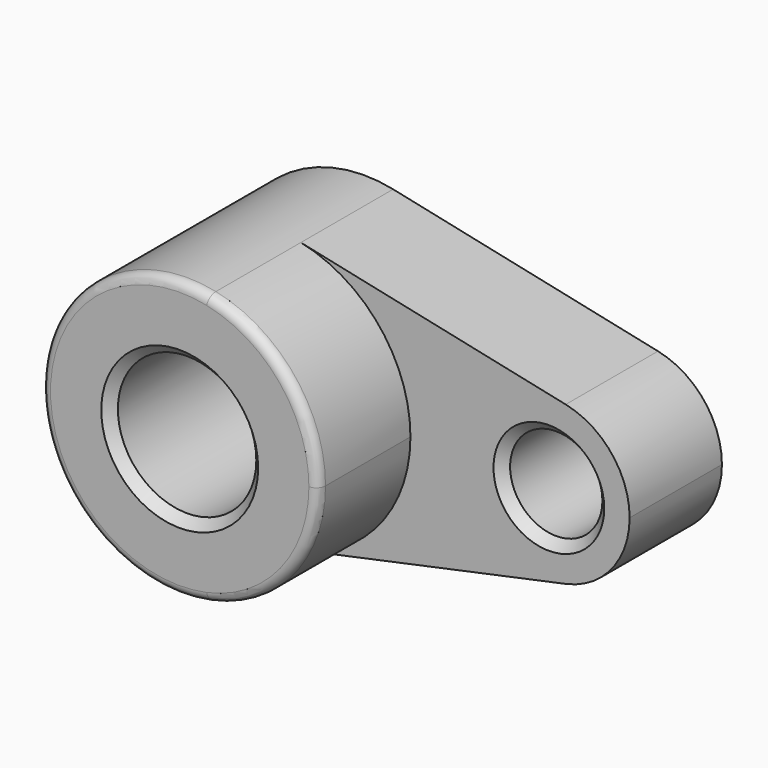
from build123d import *

# Parameters (mm, degrees)
F0_R     = 381
F0_R_2   = 254
F1_DEPTH = 635
F2_DEPTH = 1270
F3_R     = 50.8
F4_SIZE  = 50.8


with BuildPart() as f1:
    # F0 (on Front) → F1 (new body)
    with BuildSketch(Plane.XZ):
        with BuildLine():
            ThreePointArc((158.75, -745.280107), (592.28857, -479.414487), (762, 0))
            ThreePointArc((762, 0), (592.28857, 479.414487), (158.75, 745.280107))
            ThreePointArc((158.75, 745.280107), (-762, 0), (158.75, -745.280107))
        make_face()
        Circle(F0_R, mode=Mode.SUBTRACT)
        with BuildLine():
            ThreePointArc((158.75, 745.280107), (592.28857, 479.414487), (762, 0))
            ThreePointArc((762, 0), (592.28857, -479.414487), (158.75, -745.280107))
            Line((158.75, -745.280107), (1616.604167, -434.746729))
            ThreePointArc((1616.604167, -434.746729), (1079.5, 0), (1616.604167, 434.746729))
            Line((1616.604167, 434.746729), (158.75, 745.280107))
        make_face()
        with BuildLine():
            ThreePointArc((1968.5, 0), (1869.501666, 279.658451), (1616.604167, 434.746729))
            ThreePointArc((1616.604167, 434.746729), (1079.5, 0), (1616.604167, -434.746729))
            ThreePointArc((1616.604167, -434.746729), (1869.501666, -279.658451), (1968.5, 0))
        make_face()
        with Locations((1524, 0)):
            Circle(F0_R_2, mode=Mode.SUBTRACT)
    extrude(amount=F1_DEPTH)

    # F0 (on Front) → F2 (join)
    with BuildSketch(Plane.XZ):
        with BuildLine():
            ThreePointArc((158.75, -745.280107), (592.28857, -479.414487), (762, 0))
            ThreePointArc((762, 0), (592.28857, 479.414487), (158.75, 745.280107))
            ThreePointArc((158.75, 745.280107), (-762, 0), (158.75, -745.280107))
        make_face()
        Circle(F0_R, mode=Mode.SUBTRACT)
    extrude(amount=F2_DEPTH)

    # F3
    f3_edges = [f1.edges().sort_by_distance(p)[0] for p in [
        (-158.75, -1270, 745.280107),
    ]]
    fillet(f3_edges, radius=F3_R)

    # F4
    f4_edges = [f1.edges().sort_by_distance(p)[0] for p in [
        (-381, -1270, 0),
        (1270, -635, 0),
    ]]
    chamfer(f4_edges, length=F4_SIZE)


solid = f1.part
